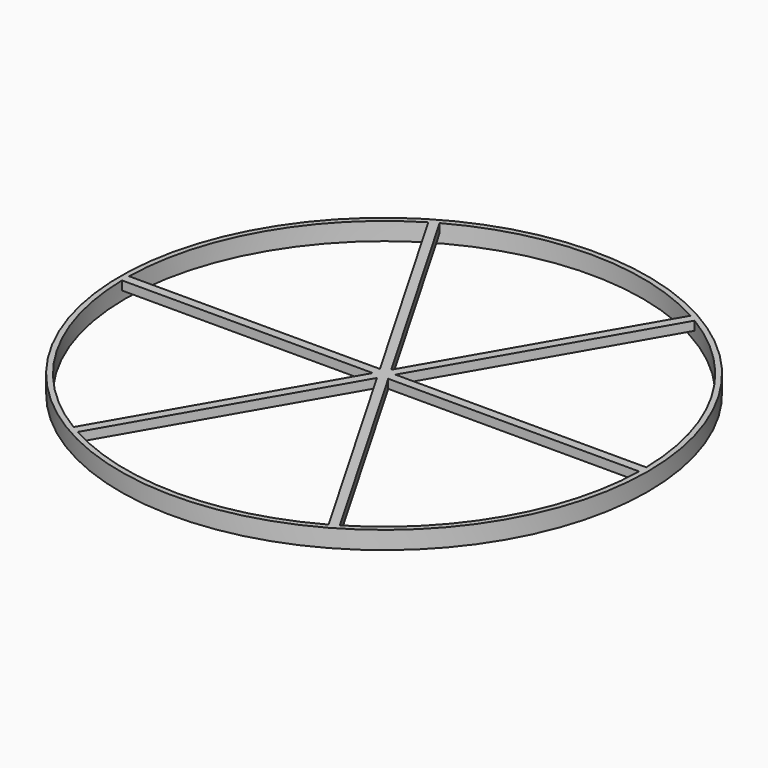
from build123d import *

# Parameters (mm, degrees)
CYLINDER002_R     = 290
CYLINDER002_DEPTH = 20
CYLINDER001_R     = 296
CYLINDER001_DEPTH = 20
BOX_W             = 290
BOX_H             = 10
BOX_DEPTH         = 10
ARRAY003_COUNT    = 6


with BuildPart() as cilindro002:
    # Cylinder002 → Cylinder002 (new body)
    with BuildSketch(Plane.XY.offset(-535)):
        Circle(CYLINDER002_R)
    extrude(amount=CYLINDER002_DEPTH)


with BuildPart() as cut004:
    # Cylinder001 → Cylinder001 (new body)
    with BuildSketch(Plane.XY.offset(-535)):
        Circle(CYLINDER001_R)
    extrude(amount=CYLINDER001_DEPTH)

    # Cut003: cut Cilindro002
    add(cilindro002.part, mode=Mode.SUBTRACT)


with BuildPart() as fusion015:
    # Box → Box (new body)
    with BuildSketch(Plane(origin=(0, -5, -525), x_dir=(1, 0, 0), z_dir=(0, 0, 1))):
        with Locations((145, 5)):
            Rectangle(BOX_W, BOX_H)
    extrude(amount=BOX_DEPTH)

    # Array003: Fusion015 ×6 about axis
    array003_axis = Axis((0, 0, 0), (0, 0, 1))


with BuildPart() as fusion015_1:
    add(fusion015.part)
    for i in range(1, ARRAY003_COUNT):
        add(fusion015.part.rotate(array003_axis, i * 360 / ARRAY003_COUNT))

    # Fusion013: union Cut004
    add(cut004.part)


solid = fusion015_1.part
